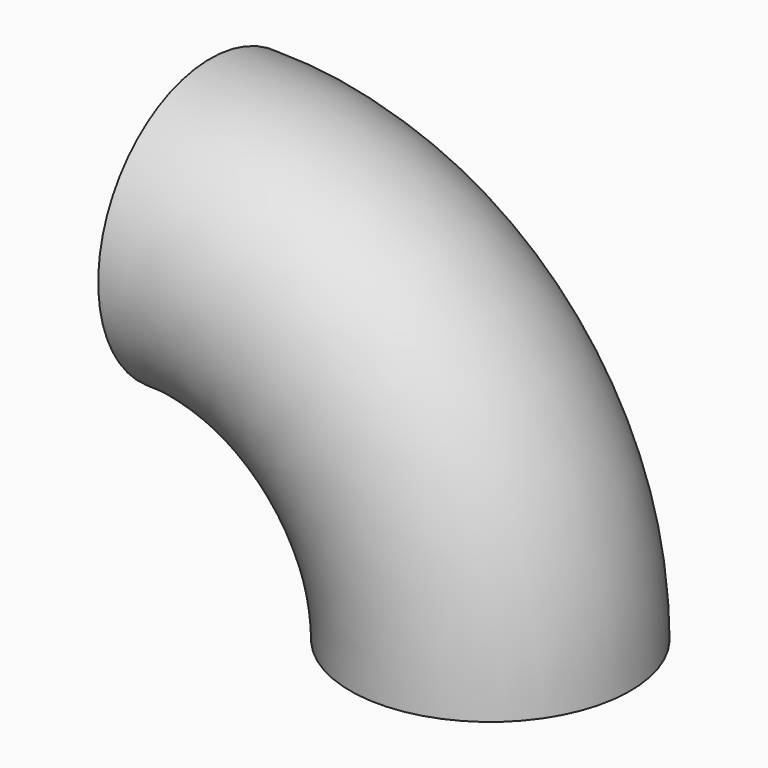
from build123d import *

# Parameters (mm, degrees)
F1_R = 390
F3_T = -2.3


with BuildPart() as f2:
    # F2: sweep along a path in F0
    with BuildLine(Plane.XZ) as f2_path:
        ThreePointArc((780, 0), (551.5432893255, 551.5432893255), (0, 780))
    # F1 (on Right) → F2 (sweep)
    with BuildSketch(Plane.YZ):
        with Locations((0, 780)):
            Circle(F1_R)
    sweep(path=f2_path.line)

    # F3
    f3_openings = [f2.faces().sort_by_distance(p)[0] for p in [
        (0, 0, 780),
        (780, 0, 0),
    ]]
    offset(amount=F3_T, openings=f3_openings)


solid = f2.part
